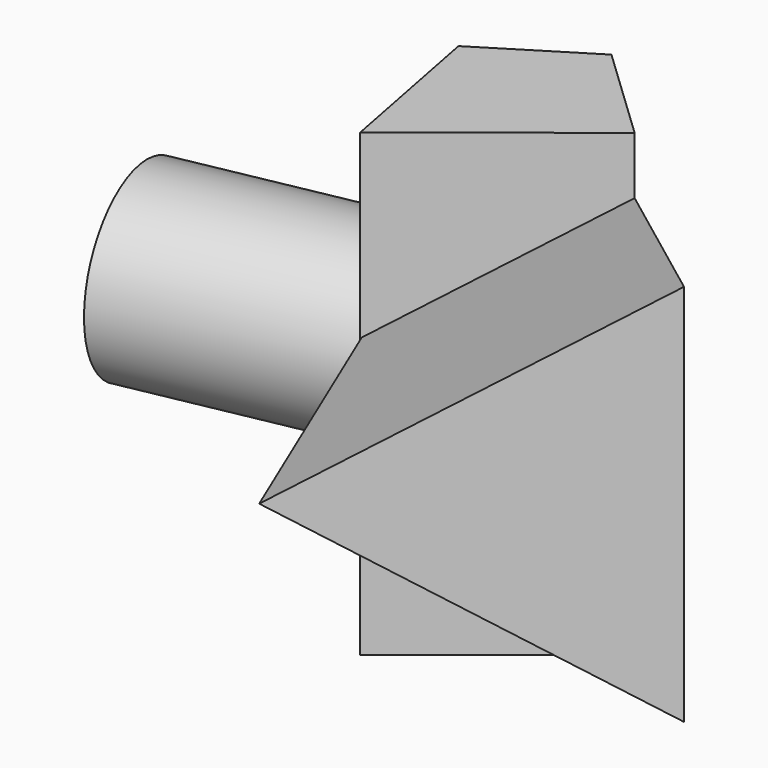
from build123d import *

# Parameters (mm, degrees)
F1_DEPTH      = 50.292
F1_DEPTH_BACK = 43.942
F3_DEPTH      = 51.054
F5_DEPTH      = 57.658
F5_TAPER      = -8


with BuildPart() as f1:
    # F0 (on Top) → F1 (new body, two sides)
    with BuildSketch(Plane.XY) as f1_sk:
        Polygon((-20.9554843605, 9.0488390997), (-14.5379882306, -24.1334326565), (19.8396630585, 3.1725820154), (0, 22.0344699919), align=None)
    extrude(amount=F1_DEPTH)
    extrude(f1_sk.sketch, amount=-F1_DEPTH_BACK)

    # F2 (on face) → F3 (join)
    with BuildSketch(Plane(origin=(-18.5129661664, -3.5804326358, 0), x_dir=(0.1898827546, -0.981806773, 0), z_dir=(-0.981806773, -0.1898827546, 0))):
        with BuildLine():
            ThreePointArc((-12.8632966108, -10.1028013332), (7.4441391901, -13.6647087453), (18.768443533, 3.5643151496))
            ThreePointArc((18.768443533, 3.5643151496), (7.4441391901, 20.7933390444), (-12.8632966108, 17.2314316323))
            Line((-12.8632966108, 17.2314316323), (-12.8632966108, -10.1028013332))
        make_face()
    extrude(amount=F3_DEPTH)

    # F4 (on face) → F5 (join)
    with BuildSketch(Plane(origin=(6.1297133792, -7.7171696999, 0), x_dir=(0.7830430091, 0.6219675601, 0), z_dir=(0.6219675601, -0.7830430091, 0))):
        Polygon((17.5085525567, -11.8831288274), (17.5085525567, 38.5248087551), (-26.1460019422, 13.3208399639), align=None)
    extrude(amount=F5_DEPTH, taper=F5_TAPER)


solid = f1.part
